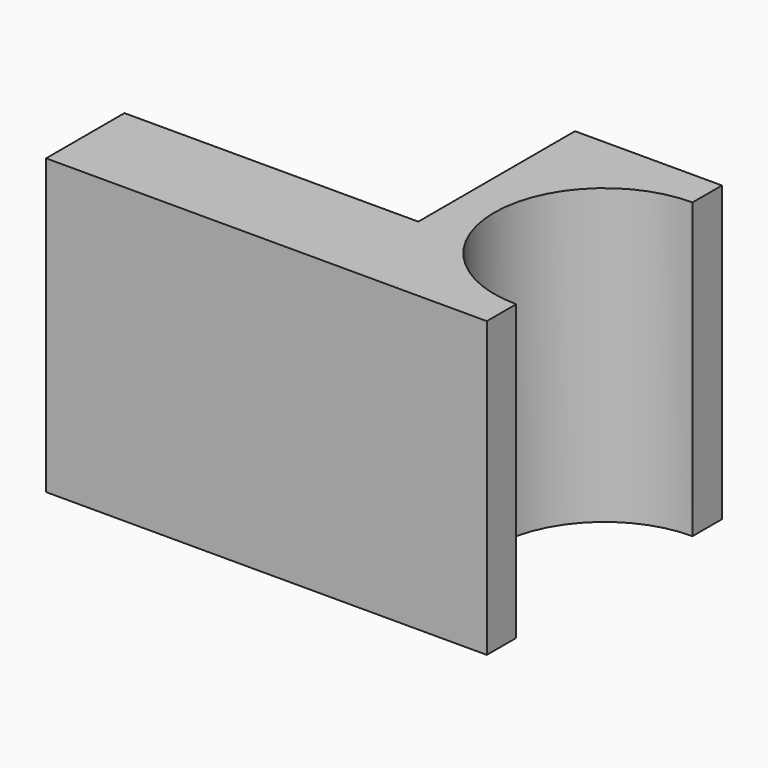
from build123d import *

# Parameters (mm, degrees)
F0_W     = 90
F0_H     = 60
F1_DEPTH = 60
F3_DEPTH = 60.001
F5_DEPTH = 60


with BuildPart() as f1:
    # F0 (on Front) → F1 (new body)
    with BuildSketch(Plane.XZ):
        Rectangle(F0_W, F0_H)
    extrude(amount=F1_DEPTH)

    # F2 (on face) → F3 (cut, through all)
    with BuildSketch(Plane.XY.offset(30)):
        with BuildLine():
            Line((45, -52.5), (45, -7.5))
            ThreePointArc((45, -7.5), (22.5, -30), (45, -52.5))
        make_face()
    extrude(amount=-F3_DEPTH, mode=Mode.SUBTRACT)

    # F4 (on face) → F5 (cut)
    with BuildSketch(Plane(origin=(-45, 0, 0), x_dir=(0, -1, 0), z_dir=(-1, 0, 0))):
        with BuildLine():
            Line((0, 30), (0, -10))
            ThreePointArc((0, -10), (28.284271, 1.715729), (40, 30))
            Line((40, 30), (0, 30))
        make_face()
    extrude(amount=-F5_DEPTH, mode=Mode.SUBTRACT)


solid = f1.part
